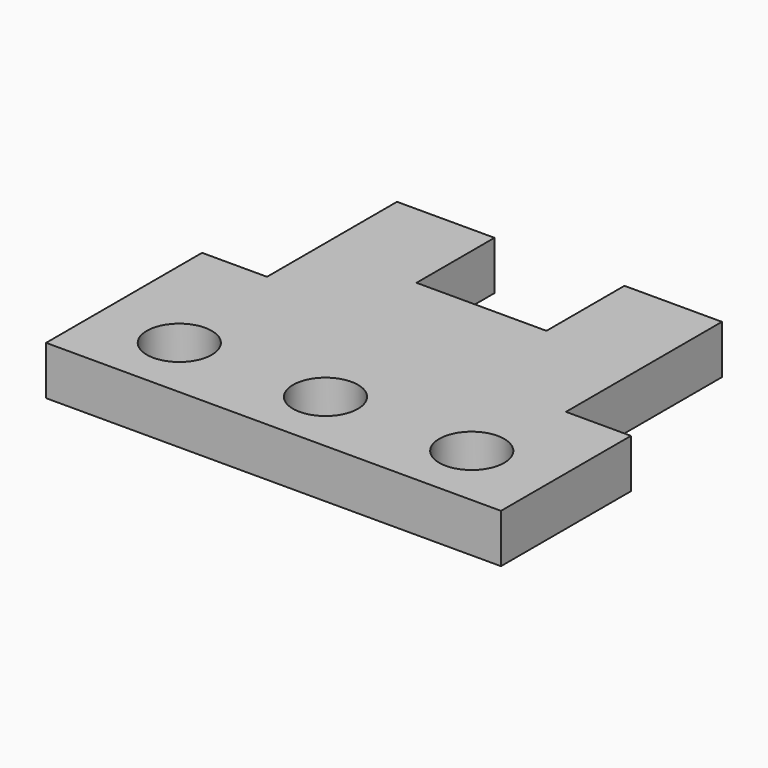
from build123d import *

# Parameters (mm, degrees)
F0_R     = 10
F1_DEPTH = 15


with BuildPart() as f1:
    # F0 (on Top) → F1 (new body)
    with BuildSketch(Plane.XY):
        Polygon((0, 60), (0, 0), (140, 0), (140, 50), (120, 50), (120, 110), (90, 110), (90, 80), (50, 80), (50, 110), (20, 110), (20, 60), align=None)
        with Locations((25, 20)):
            Circle(F0_R, mode=Mode.SUBTRACT)
        with Locations((70, 20)):
            Circle(F0_R, mode=Mode.SUBTRACT)
        with Locations((115, 20)):
            Circle(F0_R, mode=Mode.SUBTRACT)
    extrude(amount=F1_DEPTH)


solid = f1.part
